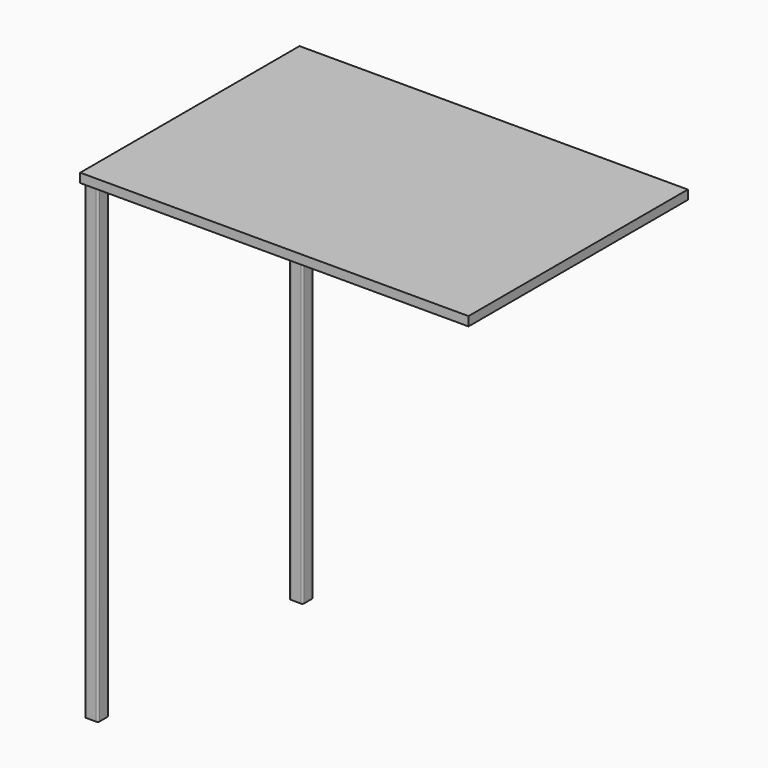
from build123d import *

# Parameters (mm, degrees)
F0_W     = 381
F0_H     = 12.7
F1_DEPTH = 539.75
F3_DEPTH = 654.05


with BuildPart() as f1:
    # F0 (on Right) → F1 (new body)
    with BuildSketch(Plane.YZ):
        with Locations((0, 635)):
            Rectangle(F0_W, F0_H)
    extrude(amount=F1_DEPTH)

    # F2 (on face) → F3 (join)
    with BuildSketch(Plane(origin=(0, 0, 628.65), x_dir=(1, 0, 0), z_dir=(0, 0, -1))):
        with BuildLine():
            Line((19.685, 187.325), (5.715, 187.325))
            ThreePointArc((5.715, 187.325), (3.918949, 186.581051), (3.175, 184.785))
            Line((3.175, 184.785), (3.175, 170.815))
            ThreePointArc((3.175, 170.815), (3.918949, 169.018949), (5.715, 168.275))
            Line((5.715, 168.275), (19.685, 168.275))
            ThreePointArc((19.685, 168.275), (21.481051, 169.018949), (22.225, 170.815))
            Line((22.225, 170.815), (22.225, 184.785))
            ThreePointArc((22.225, 184.785), (21.481051, 186.581051), (19.685, 187.325))
        make_face()
        with BuildLine():
            ThreePointArc((19.685, -187.325), (21.481051, -186.581051), (22.225, -184.785))
            Line((22.225, -184.785), (22.225, -170.815))
            ThreePointArc((22.225, -170.815), (21.481051, -169.018949), (19.685, -168.275))
            Line((19.685, -168.275), (5.715, -168.275))
            ThreePointArc((5.715, -168.275), (3.918949, -169.018949), (3.175, -170.815))
            Line((3.175, -170.815), (3.175, -184.785))
            ThreePointArc((3.175, -184.785), (3.918949, -186.581051), (5.715, -187.325))
            Line((5.715, -187.325), (19.685, -187.325))
        make_face()
    extrude(amount=F3_DEPTH)


solid = f1.part
